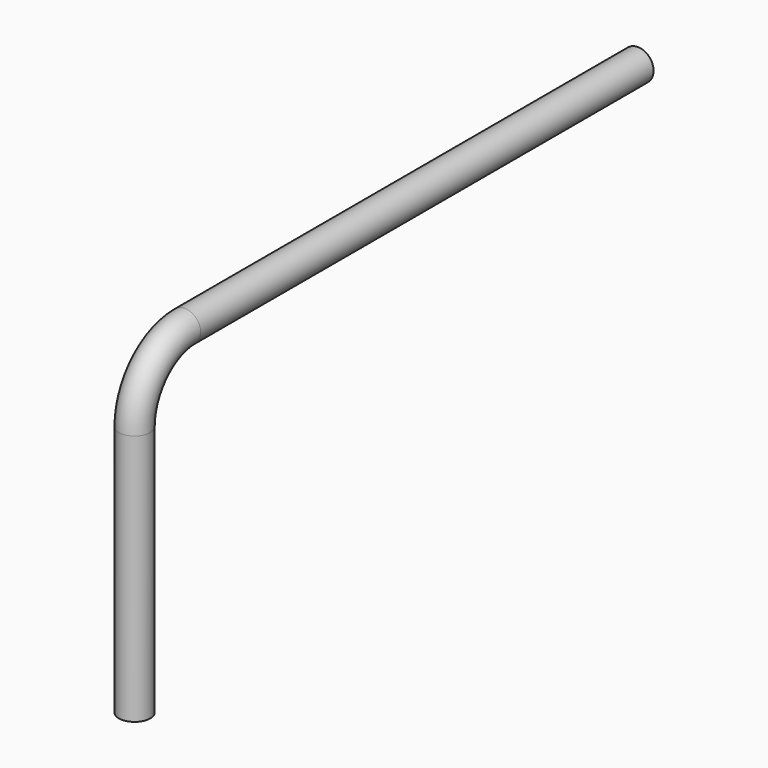
from build123d import *

# Parameters (mm, degrees)
SKETCH_R = 2.5


with BuildPart() as part:
    # AdditivePipe: sweep along a path in Sketch001
    with BuildLine(Plane.YZ) as additivepipe_path:
        Line((0, 0), (0, 40))
        ThreePointArc((0, 40), (2.928932, 47.071068), (10, 50))
        Line((10, 50), (100, 50))
    # Sketch → AdditivePipe (sweep)
    with BuildSketch(Plane.XY):
        Circle(SKETCH_R)
    sweep(path=additivepipe_path.line)


solid = part.part
